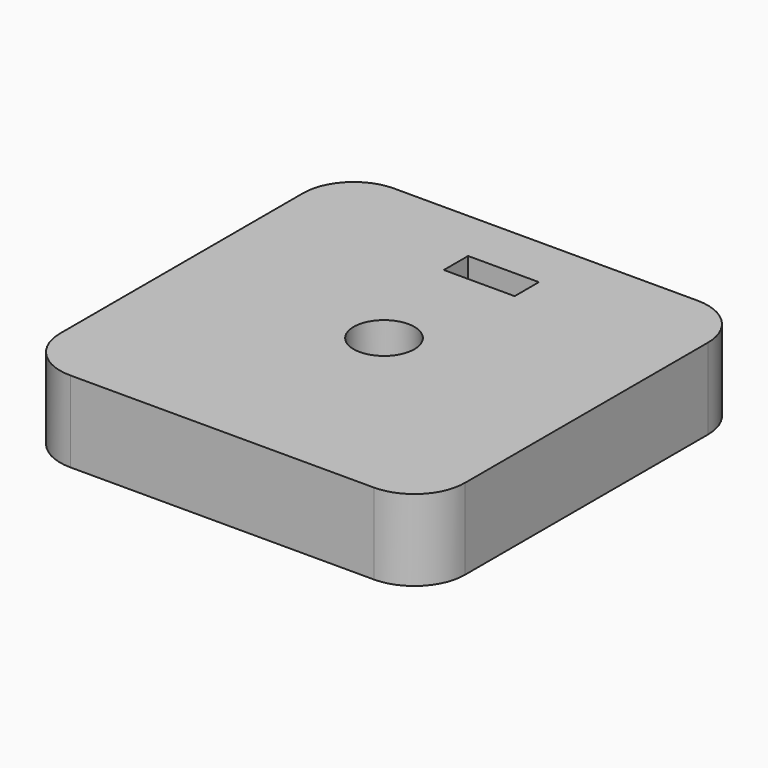
from build123d import *

# Parameters (mm, degrees)
SKETCH016_W     = 40
SKETCH016_H     = 40
PAD005_DEPTH    = 8
FILLET003_R     = 5
SKETCH017_W     = 22.5
SKETCH017_H     = 12.3
POCKET011_DEPTH = 4
SKETCH018_R     = 3
POCKET012_DEPTH = 5
SKETCH019_W     = 7
SKETCH019_H     = 3
POCKET013_DEPTH = 8


with BuildPart() as part:
    # Sketch016 → Pad005 (new body)
    with BuildSketch(Plane.XY):
        Rectangle(SKETCH016_W, SKETCH016_H)
    extrude(amount=PAD005_DEPTH)

    # Fillet003
    fillet003_edges = [part.edges().sort_by_distance(p)[0] for p in [
        (-20, -20, 4),
        (20, -20, 4),
        (20, 20, 4),
        (-20, 20, 4),
    ]]
    fillet(fillet003_edges, radius=FILLET003_R)

    # Sketch017 (on Face2 of Fillet003) → Pocket011 (cut)
    with BuildSketch(Plane(origin=(0, 0, 0), x_dir=(1, 0, 0), z_dir=(0, 0, -1))):
        with Locations((5.05, 0)):
            Rectangle(SKETCH017_W, SKETCH017_H)
    extrude(amount=-POCKET011_DEPTH, mode=Mode.SUBTRACT)

    # Sketch018 (on Face5 of Pocket011) → Pocket012 (cut)
    with BuildSketch(Plane.XY.offset(8)):
        Circle(SKETCH018_R)
    extrude(amount=-POCKET012_DEPTH, mode=Mode.SUBTRACT)

    # Sketch019 (on Face2 of Pocket012) → Pocket013 (cut)
    with BuildSketch(Plane(origin=(0, 0, 0), x_dir=(1, 0, 0), z_dir=(0, 0, -1))):
        with Locations((0, -13.263275)):
            Rectangle(SKETCH019_W, SKETCH019_H)
    extrude(amount=-POCKET013_DEPTH, mode=Mode.SUBTRACT)


with BuildPart() as part_1:
    # Body002 placement: moved
    add(part.part.moved(Location((0, 0, 38))))


solid = part_1.part
